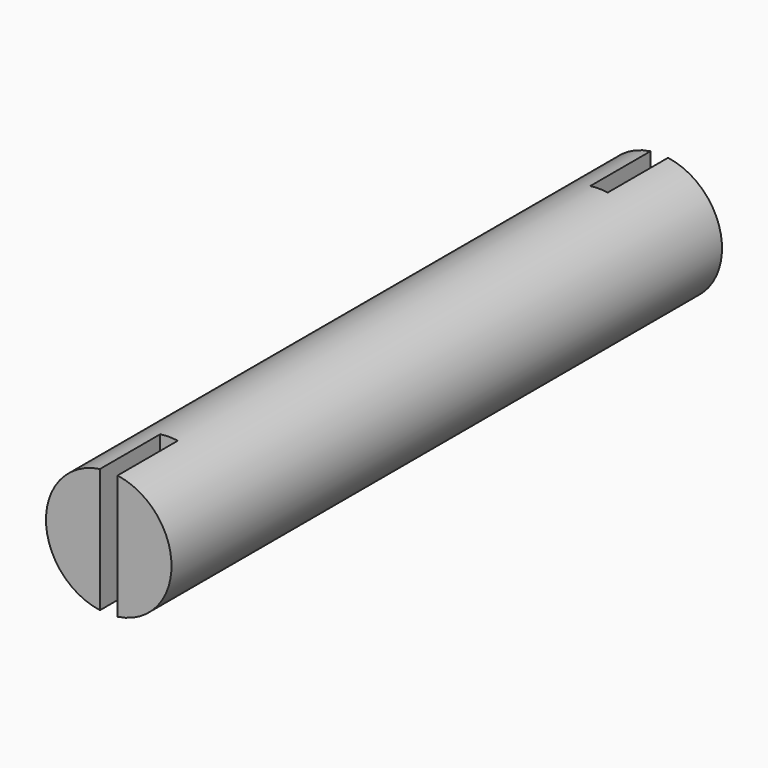
from build123d import *

# Parameters (mm, degrees)
SKETCH_R          = 12.5
PAD_DEPTH         = 68.5
SKETCH001_W       = 3.5
SKETCH001_H       = 25
POCKET_DEPTH      = 68.501
POCKET_DEPTH_BACK = -68.501
SKETCH002_W       = 3.5
SKETCH002_H       = 30
POCKET001_DEPTH   = 15


with BuildPart() as part:
    # Sketch → Pad (new body, symmetric)
    with BuildSketch(Plane.XZ):
        Circle(SKETCH_R)
    extrude(amount=PAD_DEPTH, both=True)

    # Sketch001 → Pocket (cut, two sides)
    with BuildSketch(Plane.XZ) as pocket_sk:
        with Locations((0, -9.5)):
            Rectangle(SKETCH001_W, SKETCH001_H)
    extrude(amount=-POCKET_DEPTH, mode=Mode.SUBTRACT)
    extrude(pocket_sk.sketch, amount=-POCKET_DEPTH_BACK, mode=Mode.SUBTRACT)

    # Sketch002 → Pocket001 (cut)
    with BuildSketch(Plane.XZ.offset(68.5)):
        Rectangle(SKETCH002_W, SKETCH002_H)
    pocket001 = extrude(amount=-POCKET001_DEPTH, mode=Mode.SUBTRACT)

    # Mirrored: Pocket001 across XZ
    add(pocket001.mirror(Plane.XZ), mode=Mode.SUBTRACT)


solid = part.part
